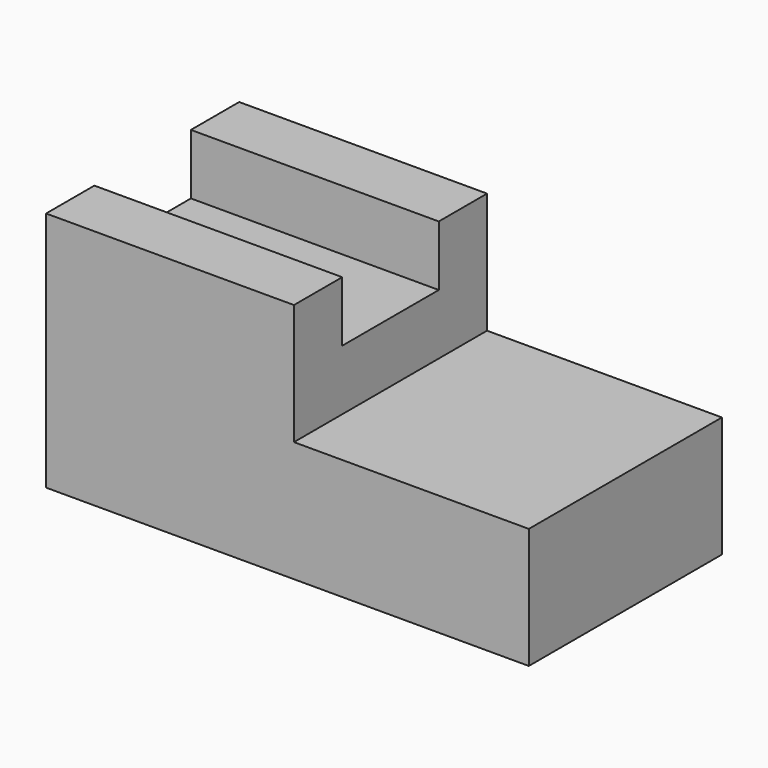
from build123d import *

# Parameters (mm, degrees)
F1_DEPTH  = 101.6
F2_W      = 50.8
F2_H      = 25.4
F3_DEPTH  = 126.062407
F3_FACE_W = 50.8
F3_FACE_H = 25.4
F4_DEPTH  = 77.139593


with BuildPart() as f1:
    # F0 (on Front) → F1 (new body)
    with BuildSketch(Plane.XZ):
        Polygon((27.194744, -8.023955), (-77.138593, -8.023955), (-77.138593, -109.623955), (126.061407, -109.623955), (126.061407, -58.823955), (27.194744, -58.823955), align=None)
    extrude(amount=F1_DEPTH)

    # F2 (on Right) → F3 (cut, through all)
    with BuildSketch(Plane.YZ):
        with Locations((-50.8, -20.723955)):
            Rectangle(F2_W, F2_H)
    extrude(amount=F3_DEPTH, mode=Mode.SUBTRACT)

    # F3_face (on face) → F4 (cut, through all)
    with BuildSketch(Plane(origin=(0, -50.8, -20.723955), x_dir=(0, 1, 0), z_dir=(1, 0, 0))):
        Rectangle(F3_FACE_W, F3_FACE_H)
    extrude(amount=-F4_DEPTH, mode=Mode.SUBTRACT)


solid = f1.part
